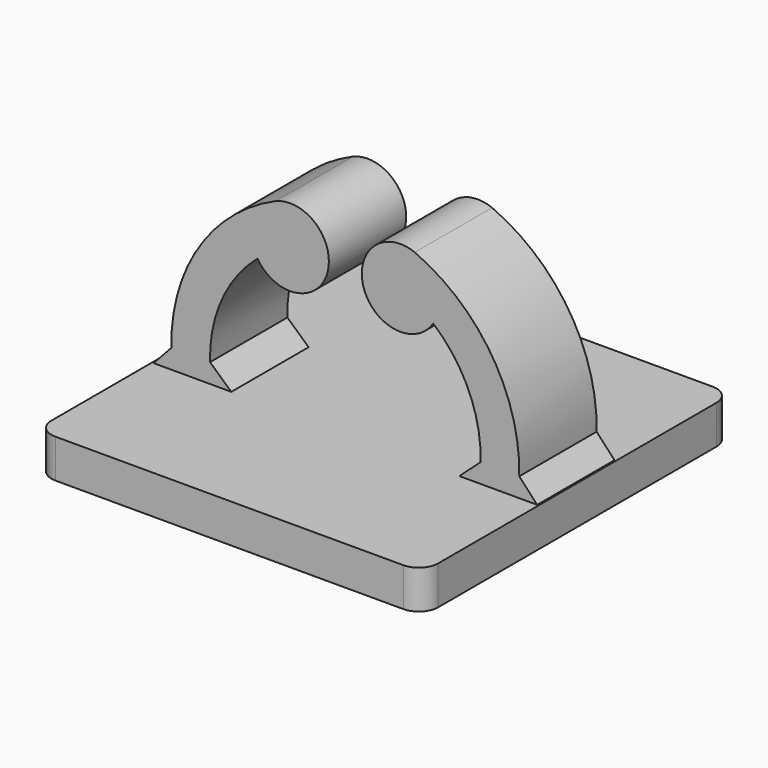
from build123d import *

# Parameters (mm, degrees)
SKETCH_W     = 20
SKETCH_H     = 20
PAD_DEPTH    = 2
PAD001_DEPTH = 2.5
CHAMFER_SIZE = 1
FILLET_R     = 1


with BuildPart() as part:
    # Sketch → Pad (new body)
    with BuildSketch(Plane.XY):
        Rectangle(SKETCH_W, SKETCH_H)
    extrude(amount=PAD_DEPTH)

    # Sketch001 → Pad001 (join, symmetric)
    with BuildSketch(Plane.XZ):
        with BuildLine():
            ThreePointArc((8.921584, 2), (7.836918, 7.610703), (3.592669, 11.437298))
            ThreePointArc((3.592669, 11.437298), (0.950236, 8.958289), (4.545503, 8.508849))
            ThreePointArc((6.898889, 2), (6.582918, 5.565633), (4.545503, 8.508849))
            Line((6.898889, 2), (8.921584, 2))
        make_face()
        with BuildLine():
            Line((-8.921584, 2), (-6.898889, 2))
            ThreePointArc((-4.545503, 8.508849), (-6.582918, 5.565633), (-6.898889, 2))
            ThreePointArc((-4.545503, 8.508849), (-0.950236, 8.958289), (-3.592669, 11.437298))
            ThreePointArc((-3.592669, 11.437298), (-7.836918, 7.610703), (-8.921584, 2))
        make_face()
    extrude(amount=PAD001_DEPTH, both=True)

    # Chamfer
    chamfer_edges = [part.edges().sort_by_distance(p)[0] for p in [
        (-6.898889, 0, 2),
        (8.921584, 0, 2),
        (-8.921584, 0, 2),
        (6.898889, 0, 2),
    ]]
    chamfer(chamfer_edges, length=CHAMFER_SIZE)

    # Fillet
    fillet_edges = [part.edges().sort_by_distance(p)[0] for p in [
        (10, -10, 1),
        (10, 10, 1),
        (-10, -10, 1),
        (-10, 10, 1),
    ]]
    fillet(fillet_edges, radius=FILLET_R)


solid = part.part
